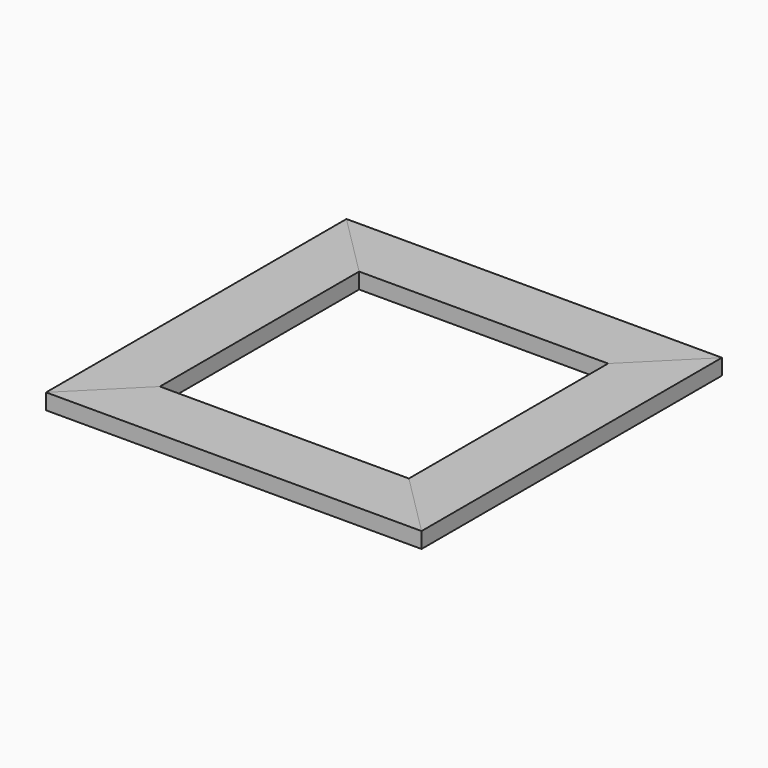
from build123d import *

# Parameters (mm, degrees)
F1_DEPTH = 25.4
F2_DEPTH = 25.4
F3_DEPTH = 25.4
F4_DEPTH = 25.4


with BuildPart() as f1:
    # F0 (on Top) → F1 (new body)
    with BuildSketch(Plane.XY):
        Polygon((-200, 200), (200, 200), (301.6, 301.6), (-301.6, 301.6), align=None)
    extrude(amount=F1_DEPTH)


with BuildPart() as f2:
    # F0 (on Top) → F2 (new body)
    with BuildSketch(Plane.XY):
        Polygon((-200, -200), (-200, 200), (-301.6, 301.6), (-301.6, -301.6), align=None)
    extrude(amount=F2_DEPTH)


with BuildPart() as f3:
    # F0 (on Top) → F3 (new body)
    with BuildSketch(Plane.XY):
        Polygon((301.6, -301.6), (200, -200), (-200, -200), (-301.6, -301.6), align=None)
    extrude(amount=F3_DEPTH)


with BuildPart() as f4:
    # F0 (on Top) → F4 (new body)
    with BuildSketch(Plane.XY):
        Polygon((301.6, 301.6), (200, 200), (200, -200), (301.6, -301.6), align=None)
    extrude(amount=F4_DEPTH)


solid = Compound([f1.part, f2.part, f3.part, f4.part])
